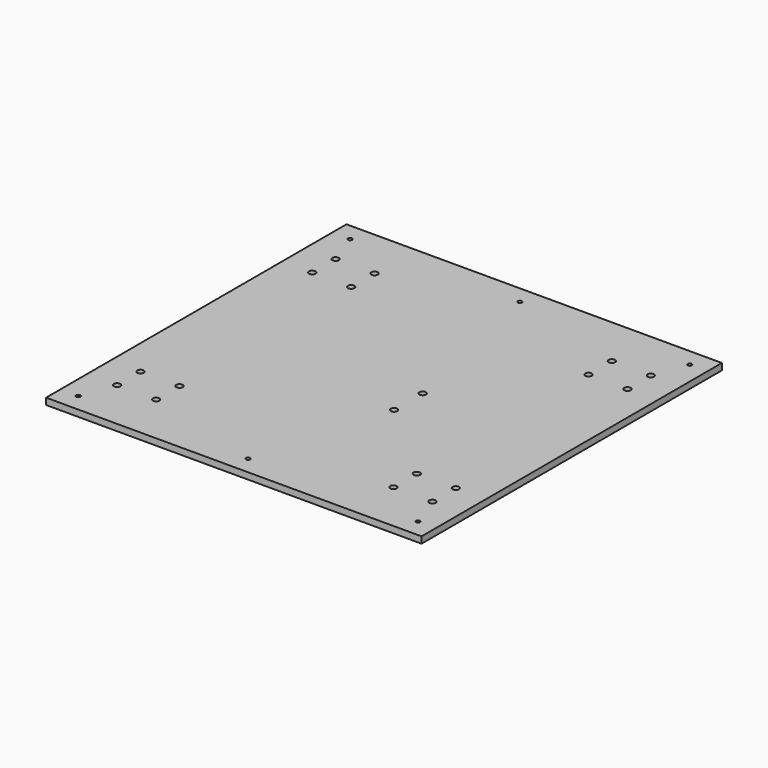
from build123d import *

# Parameters (mm, degrees)
F0_W     = 231
F0_H     = 231
F1_DEPTH = 4
F2_W     = 231
F2_H     = 231
F2_R     = 1.25
F2_R_2   = 2
F3_DEPTH = 4


with BuildPart() as f1:
    # F0 (on Top) → F1 (new body)
    with BuildSketch(Plane.XY):
        with Locations((-0.3906, 20.069742)):
            Rectangle(F0_W, F0_H)
    extrude(amount=-F1_DEPTH)

    # F2 (on face) → F3 (intersect)
    with BuildSketch(Plane.XY):
        with Locations((-0.3906, 20.069742)):
            Rectangle(F2_W, F2_H)
        with Locations((-104.8906, -84.430258)):
            Circle(F2_R, mode=Mode.SUBTRACT)
        with Locations((-97.3906, -63.930258)):
            Circle(F2_R_2, mode=Mode.SUBTRACT)
        with Locations((-97.3906, -45.930258)):
            Circle(F2_R_2, mode=Mode.SUBTRACT)
        with Locations((-73.3906, -63.930258)):
            Circle(F2_R_2, mode=Mode.SUBTRACT)
        with Locations((-73.3906, -45.930258)):
            Circle(F2_R_2, mode=Mode.SUBTRACT)
        with Locations((-0.3906, -84.430258)):
            Circle(F2_R, mode=Mode.SUBTRACT)
        with Locations((104.1094, -84.430258)):
            Circle(F2_R, mode=Mode.SUBTRACT)
        with Locations((72.6094, -63.930258)):
            Circle(F2_R_2, mode=Mode.SUBTRACT)
        with Locations((72.6094, -45.930258)):
            Circle(F2_R_2, mode=Mode.SUBTRACT)
        with Locations((96.6094, -63.930258)):
            Circle(F2_R_2, mode=Mode.SUBTRACT)
        with Locations((96.6094, -45.930258)):
            Circle(F2_R_2, mode=Mode.SUBTRACT)
        with Locations((22.6094, -0.930258)):
            Circle(F2_R_2, mode=Mode.SUBTRACT)
        with Locations((-97.3906, 86.069742)):
            Circle(F2_R_2, mode=Mode.SUBTRACT)
        with Locations((-97.3906, 104.069742)):
            Circle(F2_R_2, mode=Mode.SUBTRACT)
        with Locations((-73.3906, 86.069742)):
            Circle(F2_R_2, mode=Mode.SUBTRACT)
        with Locations((-73.3906, 104.069742)):
            Circle(F2_R_2, mode=Mode.SUBTRACT)
        with Locations((-104.8906, 124.569742)):
            Circle(F2_R, mode=Mode.SUBTRACT)
        with Locations((22.6094, 21.069742)):
            Circle(F2_R_2, mode=Mode.SUBTRACT)
        with Locations((-0.3906, 124.569742)):
            Circle(F2_R, mode=Mode.SUBTRACT)
        with Locations((72.6094, 86.069742)):
            Circle(F2_R_2, mode=Mode.SUBTRACT)
        with Locations((72.6094, 104.069742)):
            Circle(F2_R_2, mode=Mode.SUBTRACT)
        with Locations((96.6094, 86.069742)):
            Circle(F2_R_2, mode=Mode.SUBTRACT)
        with Locations((96.6094, 104.069742)):
            Circle(F2_R_2, mode=Mode.SUBTRACT)
        with Locations((104.1094, 124.569742)):
            Circle(F2_R, mode=Mode.SUBTRACT)
    extrude(amount=-F3_DEPTH, mode=Mode.INTERSECT)


solid = f1.part
